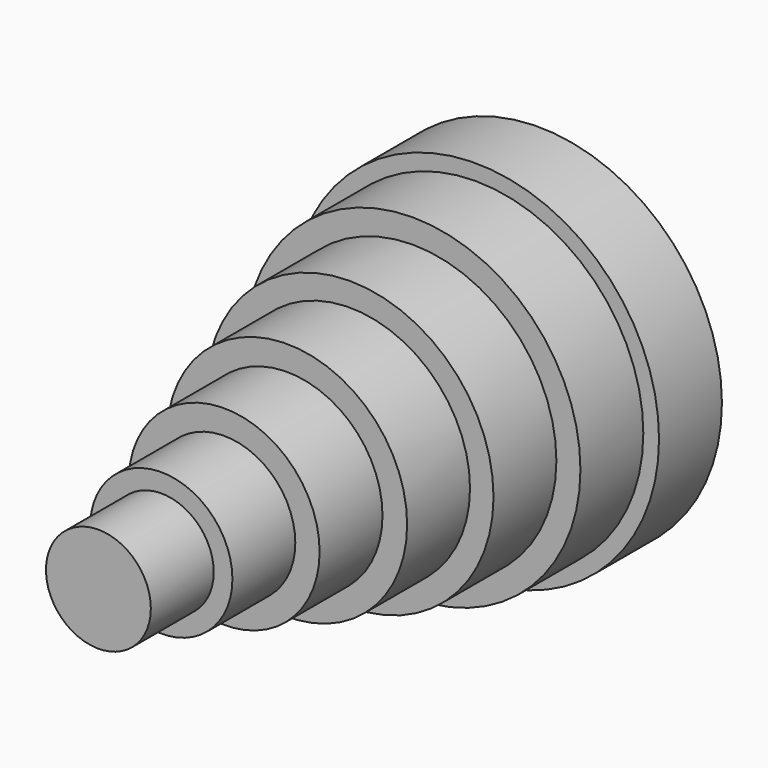
from build123d import *

# Parameters (mm, degrees)
F0_R      = 59.253304
F1_DEPTH  = 25.4
F2_R      = 54.171653
F3_DEPTH  = 25.4
F4_R      = 46.400893
F5_DEPTH  = 25.4
F6_R      = 38.807886
F7_DEPTH  = 25.4
F8_R      = 30.841297
F9_DEPTH  = 25.4
F10_R     = 22.983949
F11_DEPTH = 25.4
F12_R     = 16.943249
F13_DEPTH = 25.4


with BuildPart() as f1:
    # F0 (on Front) → F1 (new body)
    with BuildSketch(Plane.XZ):
        Circle(F0_R)
    extrude(amount=F1_DEPTH)

    # F2 (on face) → F3 (join)
    with BuildSketch(Plane.XZ.offset(25.4)):
        Circle(F2_R)
    extrude(amount=F3_DEPTH)

    # F4 (on face) → F5 (join)
    with BuildSketch(Plane.XZ.offset(50.8)):
        Circle(F4_R)
    extrude(amount=F5_DEPTH)

    # F6 (on face) → F7 (join)
    with BuildSketch(Plane.XZ.offset(76.2)):
        Circle(F6_R)
    extrude(amount=F7_DEPTH)

    # F8 (on face) → F9 (join)
    with BuildSketch(Plane.XZ.offset(101.6)):
        Circle(F8_R)
    extrude(amount=F9_DEPTH)

    # F10 (on face) → F11 (join)
    with BuildSketch(Plane.XZ.offset(127)):
        Circle(F10_R)
    extrude(amount=F11_DEPTH)

    # F12 (on face) → F13 (join)
    with BuildSketch(Plane.XZ.offset(152.4)):
        Circle(F12_R)
    extrude(amount=F13_DEPTH)


solid = f1.part
